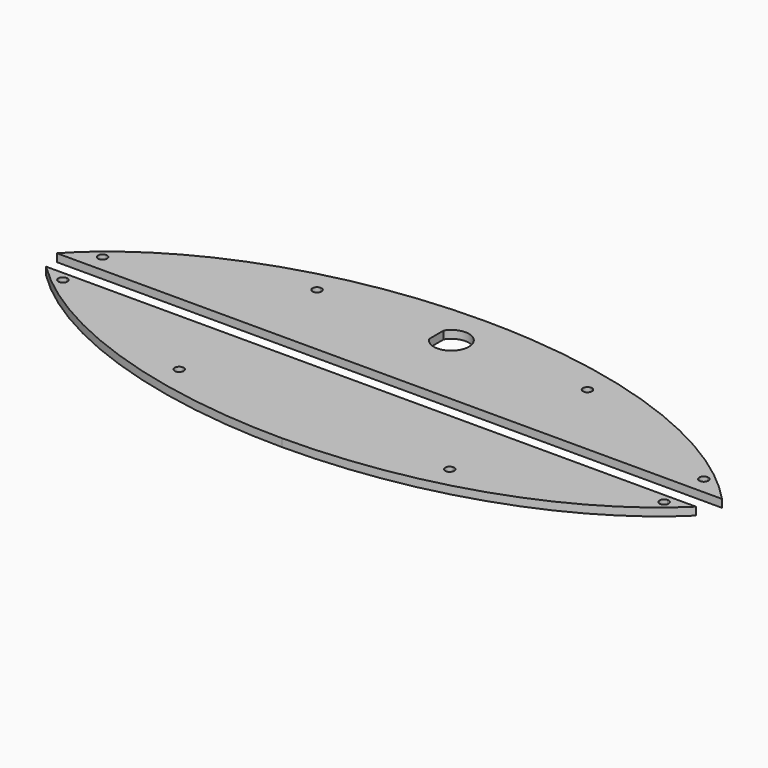
from build123d import *

# Parameters (mm, degrees)
SKETCH041_W     = 255.742076
SKETCH041_H     = 8.75
PAD002_DEPTH    = 25
PAD001_DEPTH    = 3
POCKET001_DEPTH = 3.001


with BuildPart() as body005:
    # Sketch041 (on ShapeBinder) → Pad002 (new body)
    with BuildSketch(Plane.XY.offset(3)):
        with Locations((127.51742, -147.142868)):
            Rectangle(SKETCH041_W, SKETCH041_H)
    extrude(amount=PAD002_DEPTH)


with BuildPart() as top:
    # Sketch029 → Pad001 (new body)
    with BuildSketch(Plane.XY):
        with BuildLine():
            add(Edge.make_bspline(
                [(254.388458, -142.767868), (212.098108, -97.226859), (127.517416, -97.226858)],
                knots=[0.523599, 0.523599, 0.523599, 1.570796, 1.570796, 1.570796], degree=2, weights=[1, 0.866025, 1]))
            add(Edge.make_bspline(
                [(127.517416, -97.226858), (42.936725, -97.22686), (0.646382, -142.767868)],
                knots=[1.570796, 1.570796, 1.570796, 2.617994, 2.617994, 2.617994], degree=2, weights=[1, 0.866025, 1]))
            Line((0.646382, -142.767868), (0.646382, -148.525818))
            add(Edge.make_bspline(
                [(0.646382, -148.525818), (42.93673, -194.066817), (127.517416, -194.066816)],
                knots=[3.665192, 3.665192, 3.665192, 4.712389, 4.712389, 4.712389], degree=2, weights=[1, 0.866025, 1]))
            add(Edge.make_bspline(
                [(127.517416, -194.066816), (212.098101, -194.066819), (254.388458, -148.525818)],
                knots=[4.712389, 4.712389, 4.712389, 5.759586, 5.759586, 5.759586], degree=2, weights=[1, 0.866025, 1]))
            Line((254.388458, -148.525818), (254.388458, -142.767868))
        make_face()
    extrude(amount=PAD001_DEPTH)

    # Sketch040 (on Face8 of Pad001) → Pocket001 (cut, through all)
    with BuildSketch(Plane.XY.offset(3)):
        with BuildLine():
            add(Edge.make_bspline(
                [(243.917028, -136.172243), (243.917029, -137.888844), (242.200428, -137.888846)],
                knots=[0, 0, 0, 1.570796, 1.570796, 1.570796], degree=2, weights=[1, 0.707107, 1]))
            add(Edge.make_bspline(
                [(242.200428, -137.888846), (240.483825, -137.888847), (240.483826, -136.172243)],
                knots=[0, 0, 0, 1.570798, 1.570798, 1.570798], degree=2, weights=[1, 0.707106, 1]))
            add(Edge.make_bspline(
                [(240.483826, -136.172243), (240.483827, -134.455642), (242.200428, -134.455644)],
                knots=[0, 0, 0, 1.570796, 1.570796, 1.570796], degree=2, weights=[1, 0.707107, 1]))
            add(Edge.make_bspline(
                [(242.200428, -134.455644), (243.917027, -134.455645), (243.917028, -136.172243)],
                knots=[0, 0, 0, 1.570794, 1.570794, 1.570794], degree=2, weights=[1, 0.707107, 1]))
        make_face()
        with BuildLine():
            add(Edge.make_bspline(
                [(180.82021, -112.788106), (180.820208, -114.504704), (179.10361, -114.504706)],
                knots=[0, 0, 0, 1.570794, 1.570794, 1.570794], degree=2, weights=[1, 0.707107, 1]))
            add(Edge.make_bspline(
                [(179.10361, -114.504706), (177.387009, -114.504707), (177.387007, -112.788106)],
                knots=[0, 0, 0, 1.570796, 1.570796, 1.570796], degree=2, weights=[1, 0.707107, 1]))
            add(Edge.make_bspline(
                [(177.387007, -112.788106), (177.387006, -111.071502), (179.10361, -111.071503)],
                knots=[0, 0, 0, 1.570798, 1.570798, 1.570798], degree=2, weights=[1, 0.707106, 1]))
            add(Edge.make_bspline(
                [(179.10361, -111.071503), (180.820211, -111.071505), (180.82021, -112.788106)],
                knots=[0, 0, 0, 1.570796, 1.570796, 1.570796], degree=2, weights=[1, 0.707107, 1]))
        make_face()
        with BuildLine():
            add(Edge.make_bspline(
                [(11.117811, -136.172243), (11.11781, -137.888844), (12.834411, -137.888846)],
                knots=[0, 0, 0, 1.570796, 1.570796, 1.570796], degree=2, weights=[1, 0.707107, 1]))
            add(Edge.make_bspline(
                [(12.834411, -137.888846), (14.551015, -137.888847), (14.551014, -136.172243)],
                knots=[0, 0, 0, 1.570798, 1.570798, 1.570798], degree=2, weights=[1, 0.707106, 1]))
            add(Edge.make_bspline(
                [(14.551014, -136.172243), (14.551012, -134.455642), (12.834411, -134.455644)],
                knots=[0, 0, 0, 1.570796, 1.570796, 1.570796], degree=2, weights=[1, 0.707107, 1]))
            add(Edge.make_bspline(
                [(12.834411, -134.455644), (11.117813, -134.455645), (11.117811, -136.172243)],
                knots=[0, 0, 0, 1.570794, 1.570794, 1.570794], degree=2, weights=[1, 0.707107, 1]))
        make_face()
        with BuildLine():
            add(Edge.make_bspline(
                [(74.214638, -112.788106), (74.214639, -114.504704), (75.931237, -114.504706)],
                knots=[0, 0, 0, 1.570794, 1.570794, 1.570794], degree=2, weights=[1, 0.707107, 1]))
            add(Edge.make_bspline(
                [(75.931237, -114.504706), (77.647838, -114.504707), (77.64784, -112.788106)],
                knots=[0, 0, 0, 1.570796, 1.570796, 1.570796], degree=2, weights=[1, 0.707107, 1]))
            add(Edge.make_bspline(
                [(77.64784, -112.788106), (77.647841, -111.071502), (75.931237, -111.071503)],
                knots=[0, 0, 0, 1.570798, 1.570798, 1.570798], degree=2, weights=[1, 0.707106, 1]))
            add(Edge.make_bspline(
                [(75.931237, -111.071503), (74.214636, -111.071505), (74.214638, -112.788106)],
                knots=[0, 0, 0, 1.570796, 1.570796, 1.570796], degree=2, weights=[1, 0.707107, 1]))
        make_face()
        with BuildLine():
            add(Edge.make_bspline(
                [(243.917028, -155.121476), (243.917029, -153.404875), (242.200428, -153.404873)],
                knots=[0, 0, 0, 1.570796, 1.570796, 1.570796], degree=2, weights=[1, 0.707107, 1]))
            add(Edge.make_bspline(
                [(242.200428, -153.404873), (240.483825, -153.404872), (240.483826, -155.121476)],
                knots=[0, 0, 0, 1.570798, 1.570798, 1.570798], degree=2, weights=[1, 0.707106, 1]))
            add(Edge.make_bspline(
                [(240.483826, -155.121476), (240.483827, -156.838077), (242.200428, -156.838076)],
                knots=[0, 0, 0, 1.570796, 1.570796, 1.570796], degree=2, weights=[1, 0.707107, 1]))
            add(Edge.make_bspline(
                [(242.200428, -156.838076), (243.917027, -156.838074), (243.917028, -155.121476)],
                knots=[0, 0, 0, 1.570794, 1.570794, 1.570794], degree=2, weights=[1, 0.707107, 1]))
        make_face()
        with BuildLine():
            add(Edge.make_bspline(
                [(180.82021, -178.505594), (180.820208, -176.788996), (179.10361, -176.788994)],
                knots=[0, 0, 0, 1.570794, 1.570794, 1.570794], degree=2, weights=[1, 0.707107, 1]))
            add(Edge.make_bspline(
                [(179.10361, -176.788994), (177.387009, -176.788993), (177.387007, -178.505594)],
                knots=[0, 0, 0, 1.570796, 1.570796, 1.570796], degree=2, weights=[1, 0.707107, 1]))
            add(Edge.make_bspline(
                [(177.387007, -178.505594), (177.387006, -180.222198), (179.10361, -180.222196)],
                knots=[0, 0, 0, 1.570798, 1.570798, 1.570798], degree=2, weights=[1, 0.707106, 1]))
            add(Edge.make_bspline(
                [(179.10361, -180.222196), (180.820211, -180.222195), (180.82021, -178.505594)],
                knots=[0, 0, 0, 1.570796, 1.570796, 1.570796], degree=2, weights=[1, 0.707107, 1]))
        make_face()
        with BuildLine():
            add(Edge.make_bspline(
                [(11.117811, -155.121476), (11.11781, -153.404875), (12.834411, -153.404873)],
                knots=[0, 0, 0, 1.570796, 1.570796, 1.570796], degree=2, weights=[1, 0.707107, 1]))
            add(Edge.make_bspline(
                [(12.834411, -153.404873), (14.551015, -153.404872), (14.551014, -155.121476)],
                knots=[0, 0, 0, 1.570798, 1.570798, 1.570798], degree=2, weights=[1, 0.707106, 1]))
            add(Edge.make_bspline(
                [(14.551014, -155.121476), (14.551012, -156.838077), (12.834411, -156.838076)],
                knots=[0, 0, 0, 1.570796, 1.570796, 1.570796], degree=2, weights=[1, 0.707107, 1]))
            add(Edge.make_bspline(
                [(12.834411, -156.838076), (11.117813, -156.838074), (11.117811, -155.121476)],
                knots=[0, 0, 0, 1.570794, 1.570794, 1.570794], degree=2, weights=[1, 0.707107, 1]))
        make_face()
        with BuildLine():
            add(Edge.make_bspline(
                [(74.214638, -178.505594), (74.214639, -176.788996), (75.931237, -176.788994)],
                knots=[0, 0, 0, 1.570794, 1.570794, 1.570794], degree=2, weights=[1, 0.707107, 1]))
            add(Edge.make_bspline(
                [(75.931237, -176.788994), (77.647838, -176.788993), (77.64784, -178.505594)],
                knots=[0, 0, 0, 1.570796, 1.570796, 1.570796], degree=2, weights=[1, 0.707107, 1]))
            add(Edge.make_bspline(
                [(77.64784, -178.505594), (77.647841, -180.222198), (75.931237, -180.222196)],
                knots=[0, 0, 0, 1.570798, 1.570798, 1.570798], degree=2, weights=[1, 0.707106, 1]))
            add(Edge.make_bspline(
                [(75.931237, -180.222196), (74.214636, -180.222195), (74.214638, -178.505594)],
                knots=[0, 0, 0, 1.570796, 1.570796, 1.570796], degree=2, weights=[1, 0.707107, 1]))
        make_face()
        with BuildLine():
            ThreePointArc((121.804273, -116.726858), (134.217416, -113.226858), (121.804273, -109.726858))
            Line((121.804273, -109.726858), (121.804273, -116.726858))
        make_face()
    extrude(amount=-POCKET001_DEPTH, mode=Mode.SUBTRACT)


with BuildPart() as top_1:
    # Body004 placement: moved
    add(top.part.moved(Location((0, 0, 23))))

    # Cut: cut Body005
    add(body005.part, mode=Mode.SUBTRACT)


solid = top_1.part
